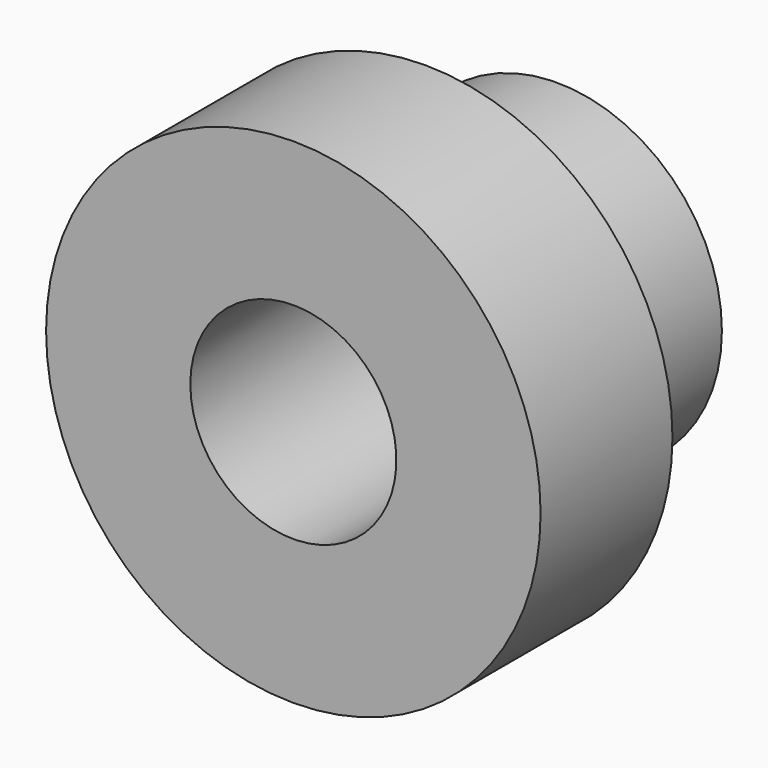
from build123d import *

# Parameters (mm, degrees)
F0_R     = 38.1
F3_DEPTH = 25.4
F5_R     = 25.4
F6_DEPTH = 25.4
F8_D     = 31.75


with BuildPart() as f3:
    # F0 (on Front) → F3 (new body)
    with BuildSketch(Plane.XZ):
        Circle(F0_R)
    extrude(amount=F3_DEPTH)

    # F5 (on Front) → F6 (join)
    with BuildSketch(Plane.XZ):
        Circle(F5_R)
    extrude(amount=-F6_DEPTH)

    # F8 (through all)
    with Locations(Plane.XZ.offset(25.4)):
        with Locations((0, 0), (0, 0), (0, 0), (0, 0)):
            Hole(F8_D / 2)


solid = f3.part
